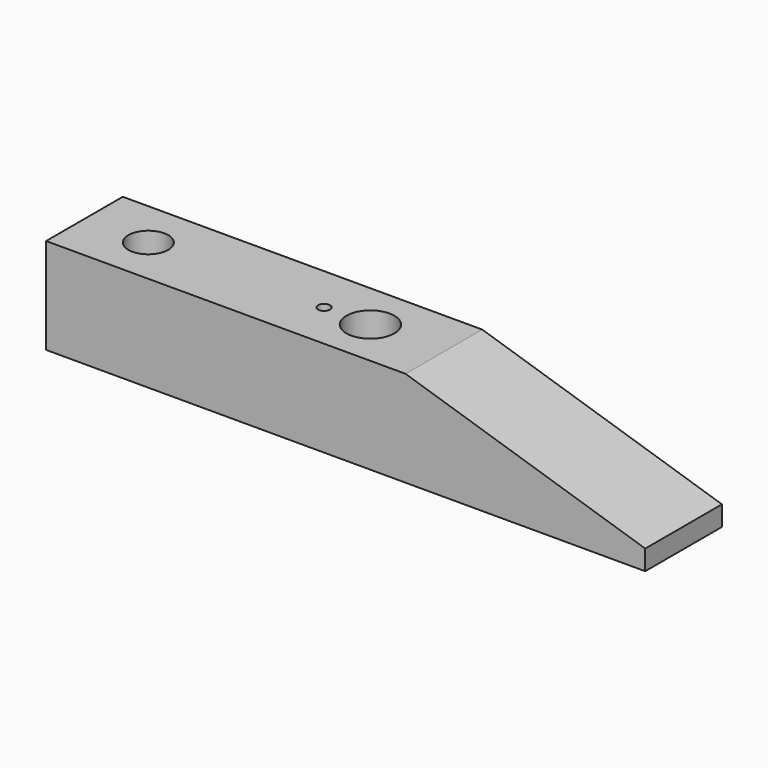
from build123d import *

# Parameters (mm, degrees)
F1_DEPTH = 12
F2_R     = 3
F3_DEPTH = 12.001
F4_R     = 0.75
F5_DEPTH = 5
F6_R     = 2.5
F7_DEPTH = 12.001


with BuildPart() as f1:
    # F0 (on Front) → F1 (new body)
    with BuildSketch(Plane.XZ):
        Polygon((9.200479, 21.225578), (-35.799521, 21.225578), (-35.799521, 9.225578), (39.200479, 9.225578), (39.200479, 11.725578), align=None)
    extrude(amount=-F1_DEPTH)

    # F2 (on face) → F3 (cut, through all)
    with BuildSketch(Plane.XY.offset(21.225578)):
        with Locations((0, 6)):
            Circle(F2_R)
    extrude(amount=-F3_DEPTH, mode=Mode.SUBTRACT)

    # F4 (on face) → F5 (cut)
    with BuildSketch(Plane.XY.offset(21.225578)):
        with Locations((-5.799521, 6)):
            Circle(F4_R)
    extrude(amount=-F5_DEPTH, mode=Mode.SUBTRACT)

    # F6 (on face) → F7 (cut, through all)
    with BuildSketch(Plane(origin=(0, 0, 9.225578), x_dir=(1, 0, 0), z_dir=(0, 0, -1))):
        with Locations((-27.799521, -6)):
            Circle(F6_R)
    extrude(amount=-F7_DEPTH, mode=Mode.SUBTRACT)


solid = f1.part
